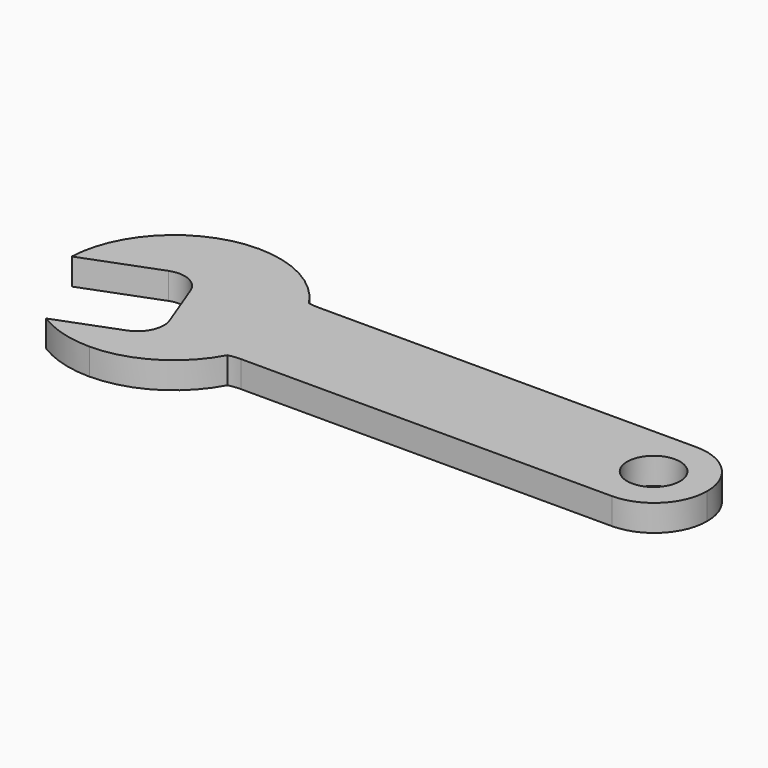
from build123d import *

# Parameters (mm, degrees)
F0_R     = 6.35
F1_DEPTH = 6.35


with BuildPart() as f1:
    # F0 (on Top) → F1 (new body)
    with BuildSketch(Plane.XY):
        with BuildLine():
            Line((-63.522818, 11.623597), (-63.522818, 24.323597))
            ThreePointArc((-63.522818, 24.323597), (-81.098645, 17.260726), (-88.9, 0))
            Line((-88.9, 0), (-71.09176, 6.765285))
            ThreePointArc((-71.09176, 6.765285), (-66.87415, 6.86833), (-63.522818, 4.30563))
            Line((-63.522818, 4.30563), (-63.522818, 11.623597))
        make_face()
        with BuildLine():
            ThreePointArc((-76.95588, -22.633602), (-70.508773, -25.496813), (-63.522818, -26.476403))
            Line((-63.522818, -26.476403), (-63.522818, -17.530432))
            Line((-63.522818, -17.530432), (-76.95588, -22.633602))
        make_face()
        with BuildLine():
            ThreePointArc((63.5, 0), (59.780256, 8.980256), (50.8, 12.7))
            Line((50.8, 12.7), (-39.801477, 12.7))
            ThreePointArc((-39.801477, 12.7), (-41.083686, 12.764892), (-42.35279, 12.958907))
            ThreePointArc((-42.35279, 12.958907), (-39.203292, 6.253034), (-38.122818, -1.076403))
            ThreePointArc((-38.122818, -1.076403), (-38.886391, -7.25754), (-41.1312, -13.067043))
            ThreePointArc((-41.1312, -13.067043), (-39.626671, -12.792095), (-38.1, -12.7))
            Line((-38.1, -12.7), (50.8, -12.7))
            ThreePointArc((50.8, -12.7), (59.780256, -8.980256), (63.5, 0))
        make_face()
        with Locations((50.661474, 0)):
            Circle(F0_R, mode=Mode.SUBTRACT)
        with BuildLine():
            ThreePointArc((-38.122818, -1.076403), (-39.203292, 6.253034), (-42.35279, 12.958907))
            ThreePointArc((-42.35279, 12.958907), (-44.282674, 13.516866), (-46.10043, 14.372163))
            Line((-46.10043, 14.372163), (-63.522818, 24.323597))
            Line((-63.522818, 24.323597), (-63.522818, 11.623597))
            Line((-63.522818, 11.623597), (-63.522818, 4.30563))
            ThreePointArc((-63.522818, 4.30563), (-63.178651, 3.711803), (-62.900585, 3.084299))
            Line((-62.900585, 3.084299), (-58.390395, -8.787861))
            ThreePointArc((-58.390395, -8.787861), (-58.53444, -13.645806), (-62.07138, -16.979036))
            Line((-62.07138, -16.979036), (-63.522818, -17.530432))
            Line((-63.522818, -17.530432), (-63.522818, -26.476403))
            Line((-63.522818, -26.476403), (-44.898486, -14.672904))
            ThreePointArc((-44.898486, -14.672904), (-43.079998, -13.717123), (-41.1312, -13.067043))
            ThreePointArc((-41.1312, -13.067043), (-38.886391, -7.25754), (-38.122818, -1.076403))
        make_face()
        with BuildLine():
            ThreePointArc((-46.10043, 14.372163), (-44.282674, 13.516866), (-42.35279, 12.958907))
            ThreePointArc((-42.35279, 12.958907), (-51.509011, 21.302793), (-63.522818, 24.323597))
            Line((-63.522818, 24.323597), (-46.10043, 14.372163))
        make_face()
        with BuildLine():
            ThreePointArc((-63.522818, -26.476403), (-50.472957, -22.867712), (-41.1312, -13.067043))
            ThreePointArc((-41.1312, -13.067043), (-43.079998, -13.717123), (-44.898486, -14.672904))
            Line((-44.898486, -14.672904), (-63.522818, -26.476403))
        make_face()
    extrude(amount=F1_DEPTH)


solid = f1.part
